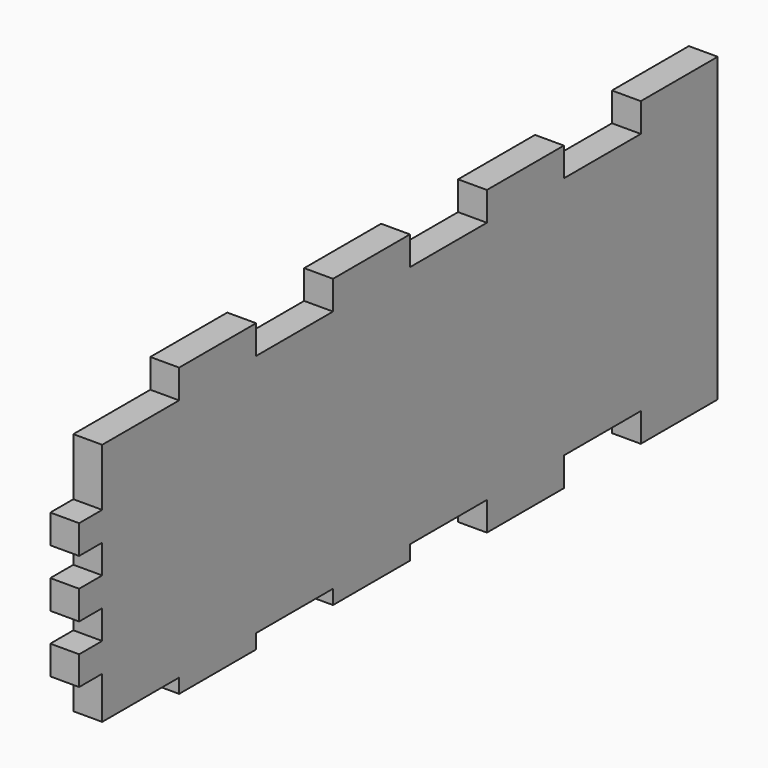
from build123d import *

# Parameters (mm, degrees)
F0_W     = 3
F0_H     = 3
F0_W_2   = 10
F1_DEPTH = 3
F2_W     = 10
F2_H     = 1.5
F3_DEPTH = 25


with BuildPart() as f1:
    # F0 (on Right) → F1 (new body)
    with BuildSketch(Plane.YZ):
        Polygon((-30, 11.18364), (-40, 11.18364), (-40, 5.22664), (-40, 2.22664), (-40, -0.77336), (-40, -3.77336), (-40, -6.77336), (-40, -9.77336), (-40, -11.18364), (-30, -11.18364), (-20, -11.18364), (-10, -11.18364), (0, -11.18364), (10, -11.18364), (20, -11.18364), (30, -11.18364), (40, -11.18364), (40, 11.18364), (30, 11.18364), (20, 11.18364), (10, 11.18364), (0, 11.18364), (-10, 11.18364), (-20, 11.18364), align=None)
        with Locations((-41.5, -8.27336)):
            Rectangle(F0_W, F0_H)
        with Locations((-41.5, 3.72664)):
            Rectangle(F0_W, F0_H)
        with Locations((-25, -12.68364)):
            Rectangle(F0_W_2, F0_H)
        with Locations((-25, 12.68364)):
            Rectangle(F0_W_2, F0_H)
        with Locations((-41.5, -2.27336)):
            Rectangle(F0_W, F0_H)
        with Locations((-5, -12.68364)):
            Rectangle(F0_W_2, F0_H)
        with Locations((-5, 12.68364)):
            Rectangle(F0_W_2, F0_H)
        with Locations((15, 12.68364)):
            Rectangle(F0_W_2, F0_H)
        with Locations((15, -12.68364)):
            Rectangle(F0_W_2, F0_H)
        with Locations((35, 12.68364)):
            Rectangle(F0_W_2, F0_H)
        with Locations((35, -12.68364)):
            Rectangle(F0_W_2, F0_H)
        with Locations((-25, -12.68364)):
            Rectangle(F0_W_2, F0_H)
        with Locations((-25, -15.68364)):
            Rectangle(F0_W_2, F0_H)
        with Locations((-5, -15.68364)):
            Rectangle(F0_W_2, F0_H)
        with Locations((15, -15.68364)):
            Rectangle(F0_W_2, F0_H)
        with Locations((35, -15.68364)):
            Rectangle(F0_W_2, F0_H)
        with Locations((-35, -12.68364)):
            Rectangle(F0_W_2, F0_H)
        with Locations((-15, -12.68364)):
            Rectangle(F0_W_2, F0_H)
        with Locations((5, -12.68364)):
            Rectangle(F0_W_2, F0_H)
        with Locations((25, -12.68364)):
            Rectangle(F0_W_2, F0_H)
    extrude(amount=F1_DEPTH)

    # F2 (on face) → F3 (cut)
    with BuildSketch(Plane.YZ.offset(3)):
        with Locations((-25, -16.43364)):
            Rectangle(F2_W, F2_H)
        with Locations((-5, -16.43364)):
            Rectangle(F2_W, F2_H)
    extrude(amount=-F3_DEPTH, mode=Mode.SUBTRACT)


solid = f1.part
